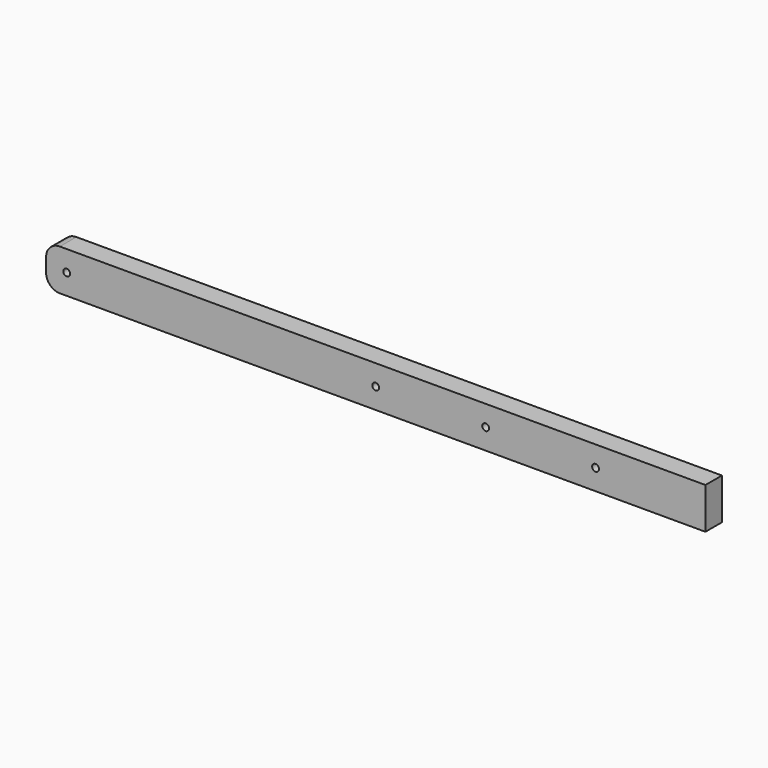
from build123d import *

# Parameters (mm, degrees)
F0_W     = 19.05
F0_H     = 38.1
F1_DEPTH = 609.6
F2_R     = 3.175
F3_DEPTH = 19.051
F4_R     = 12.7


with BuildPart() as f1:
    # F0 (on Right) → F1 (new body)
    with BuildSketch(Plane.YZ):
        with Locations((9.525, 19.05)):
            Rectangle(F0_W, F0_H)
    extrude(amount=-F1_DEPTH)

    # F2 (on face) → F3 (cut, through all)
    with BuildSketch(Plane.XZ):
        with Locations((-101.6, 19.05)):
            Circle(F2_R)
        with Locations((-203.2, 19.05)):
            Circle(F2_R)
        with Locations((-304.8, 19.05)):
            Circle(F2_R)
        with Locations((-590.55, 19.05)):
            Circle(F2_R)
    extrude(amount=-F3_DEPTH, mode=Mode.SUBTRACT)

    # F4
    f4_edges = [f1.edges().sort_by_distance(p)[0] for p in [
        (-609.6, 9.525, 38.1),
        (-609.6, 9.525, 0),
    ]]
    fillet(f4_edges, radius=F4_R)


solid = f1.part
